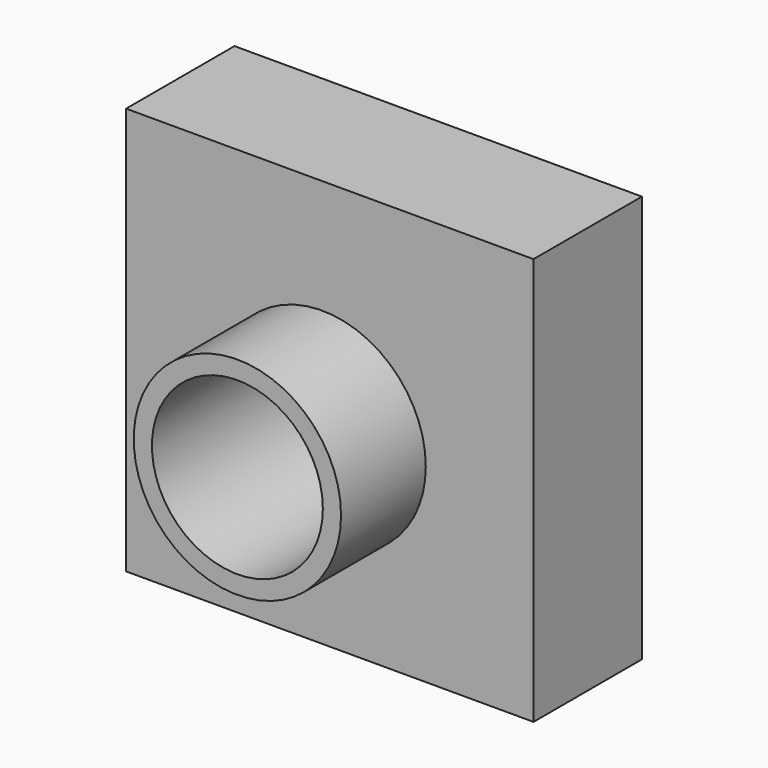
from build123d import *

# Parameters (mm, degrees)
F0_W      = 101.6
F0_H      = 101.6
F0_R      = 25.850077
F1_DEPTH  = 25.4
F0_R_2    = 21.312016
F2_DEPTH  = 60.198
F1_FACE_W = 101.6
F1_FACE_H = 101.6
F1_FACE_R = 25.850077
F3_DEPTH  = 8.382


with BuildPart() as f1:
    # F0 (on Front) → F1 (new body)
    with BuildSketch(Plane.XZ):
        with Locations((1.916589, 3.479792)):
            Rectangle(F0_W, F0_H)
        Circle(F0_R, mode=Mode.SUBTRACT)
    extrude(amount=F1_DEPTH)

    # F0 (on Front) → F2 (join)
    with BuildSketch(Plane.XZ):
        Circle(F0_R)
        Circle(F0_R_2, mode=Mode.SUBTRACT)
    extrude(amount=F2_DEPTH)

    # F1_face (on face) → F3 (join)
    with BuildSketch(Plane(origin=(2.40587, -25.4, 4.368139), x_dir=(1, 0, 0), z_dir=(0, -1, 0))):
        with Locations((-0.489281, -0.888347)):
            Rectangle(F1_FACE_W, F1_FACE_H)
        with Locations((-2.40587, -4.368139)):
            Circle(F1_FACE_R, mode=Mode.SUBTRACT)
    extrude(amount=F3_DEPTH)


solid = f1.part
